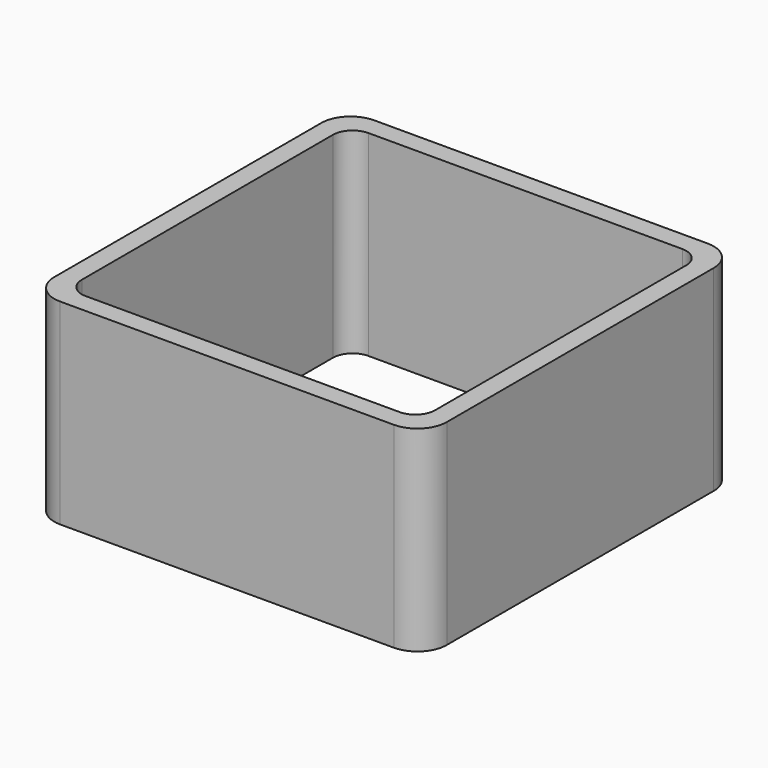
from build123d import *

# Parameters (mm, degrees)
EXTRUDE_DEPTH = 50


with BuildPart() as part:
    # Sketch → Extrude (new body)
    with BuildSketch(Plane.XY):
        with BuildLine():
            Line((-42.5, 50), (42.5, 50))
            ThreePointArc((50, 42.5), (47.803301, 47.803301), (42.5, 50))
            Line((50, 42.5), (50, -42.5))
            ThreePointArc((42.5, -50), (47.803301, -47.803301), (50, -42.5))
            Line((42.5, -50), (-42.5, -50))
            ThreePointArc((-50, -42.5), (-47.803301, -47.803301), (-42.5, -50))
            Line((-50, -42.5), (-50, 42.5))
            ThreePointArc((-42.5, 50), (-47.803301, 47.803301), (-50, 42.5))
        make_face()
        with BuildLine():
            Line((-40, 45), (40, 45))
            ThreePointArc((45, 40), (43.535534, 43.535534), (40, 45))
            Line((45, 40), (45, -40))
            ThreePointArc((40, -45), (43.535534, -43.535534), (45, -40))
            Line((40, -45), (-40, -45))
            ThreePointArc((-45, -40), (-43.535534, -43.535534), (-40, -45))
            Line((-45, -40), (-45, 40))
            ThreePointArc((-40, 45), (-43.535534, 43.535534), (-45, 40))
        make_face(mode=Mode.SUBTRACT)
    extrude(amount=EXTRUDE_DEPTH)


solid = part.part
